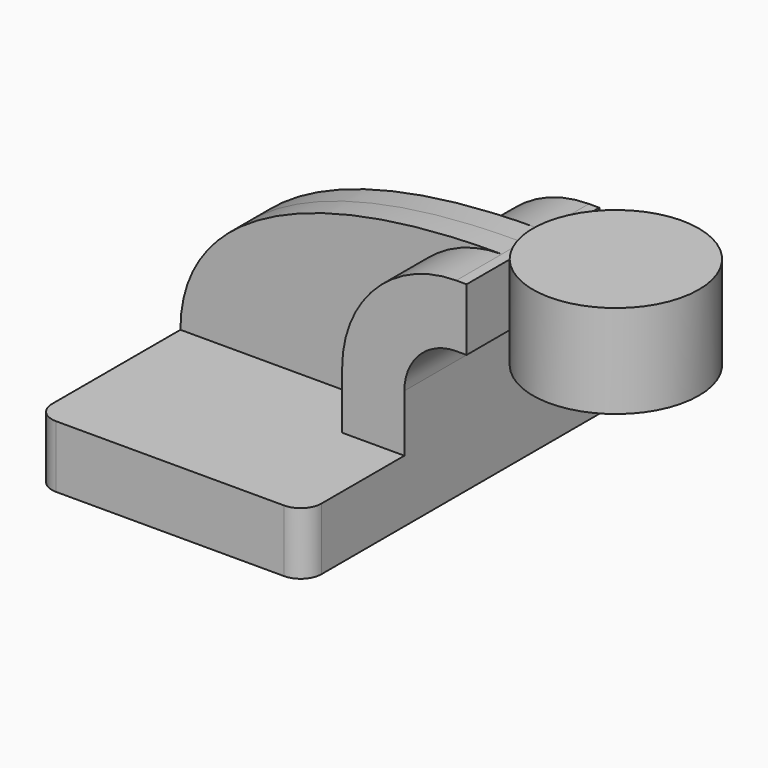
from build123d import *

# Parameters (mm, degrees)
F1_DEPTH = 63.5
F2_DEPTH = 25.4
F3_DEPTH = 7.9375
F5_R     = 6.35


with BuildPart() as f1:
    # F0 (on Front) → F1 (new body, symmetric)
    with BuildSketch(Plane.XZ):
        Polygon((41.275, -9.525), (41.275, 9.525), (22.225, 9.525), (-41.275, 9.525), (-41.275, -9.525), align=None)
    extrude(amount=F1_DEPTH, both=True)

    # F0 (on Front) → F2 (join, symmetric)
    with BuildSketch(Plane.XZ):
        with BuildLine():
            Line((22.225, 9.525), (41.275, 9.525))
            Line((41.275, 9.525), (41.275, 27.0002))
            ThreePointArc((41.275, 27.0002), (45.92468, 38.22552), (57.15, 42.8752))
            Line((57.15, 42.8752), (60.325, 42.8752))
            Line((60.325, 42.8752), (60.325, 61.9252))
            Line((60.325, 61.9252), (57.15, 61.9252))
            ThreePointArc((57.15, 61.9252), (32.454296, 51.695904), (22.225, 27.0002))
            Line((22.225, 27.0002), (22.225, 9.525))
        make_face()
    extrude(amount=F2_DEPTH, both=True)

    # F0 (on Front) → F3 (join, symmetric)
    with BuildSketch(Plane.XZ):
        with BuildLine():
            Line((-41.275, 9.525), (22.225, 9.525))
            Line((22.225, 9.525), (22.225, 27.0002))
            ThreePointArc((22.225, 27.0002), (32.454296, 51.695904), (57.15, 61.9252))
            add(Edge.make_bspline(
                [(-41.275, 9.525), (-41.275, 42.640955), (-3.642555, 62.20321), (57.15, 61.9252)],
                knots=[0, 0, 0, 0, 111.504536, 111.504536, 111.504536, 111.504536], degree=3))
        make_face()
    extrude(amount=F3_DEPTH, both=True)

    # F0 (on Front) → F4 (revolve)
    with BuildSketch(Plane.XZ):
        Polygon((85.725, 61.9252), (85.725, 42.8752), (85.725, 38.1), (111.125, 38.1), (111.125, 66.675), (85.725, 66.675), align=None)
    revolve(axis=Axis((85.725, 0, 52.3875), (0, 0, 1)))

    # F5
    f5_edges = [f1.edges().sort_by_distance(p)[0] for p in [
        (41.275, -63.5, 0),
        (41.275, 63.5, 0),
        (-41.275, 63.5, 0),
        (-41.275, -63.5, 0),
    ]]
    fillet(f5_edges, radius=F5_R)


solid = f1.part
